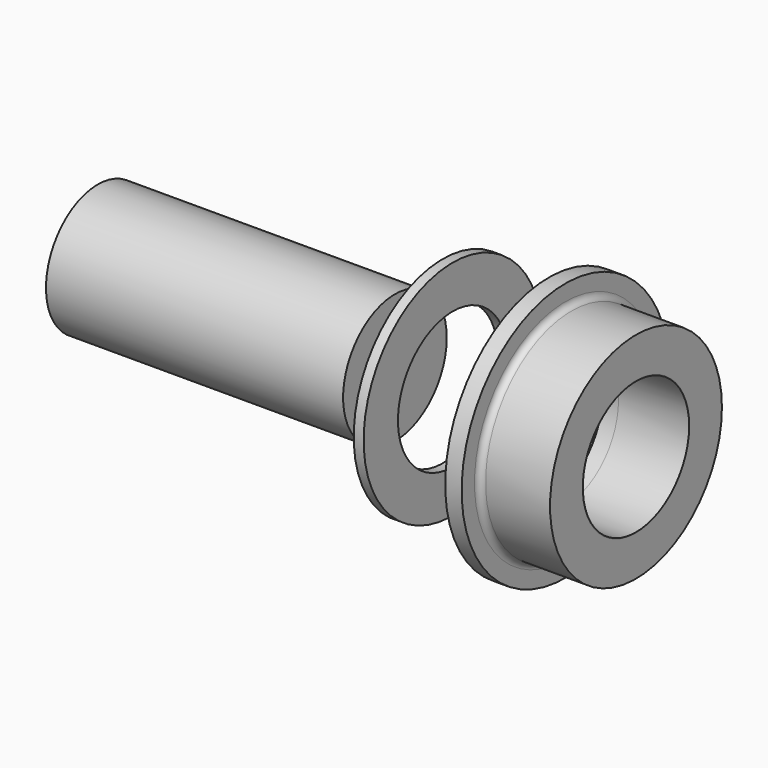
from build123d import *

# Parameters (mm, degrees)
F0_W   = 76.2
F0_H   = 16.6116
F0_W_2 = 2.54
F0_H_2 = 11.0109


with BuildPart() as f1:
    # F0 (on Top) → F1 (revolve)
    with BuildSketch(Plane.XY):
        with Locations((-27.274685, 8.3058)):
            Rectangle(F0_W, F0_H)
        with Locations((24.386736, 23.06955)):
            Rectangle(F0_W_2, F0_H_2)
        with BuildLine():
            Line((50.318114, 33.249445), (50.318114, 17.2339))
            Line((50.318114, 17.2339), (54.534514, 17.2339))
            Line((54.534514, 17.2339), (54.534514, 17.0434))
            Line((54.534514, 17.0434), (63.044108, 17.0434))
            Line((63.044108, 17.0434), (72.644323, 17.0434))
            Line((72.644323, 17.0434), (72.644714, 17.2339))
            Line((72.644714, 17.2339), (72.644714, 27.549917))
            Line((72.644714, 27.549917), (56.11763, 27.549917))
            ThreePointArc((56.11763, 27.549917), (54.998198, 28.013601), (54.534514, 29.133032))
            Line((54.534514, 29.133032), (54.534514, 33.249445))
            Line((54.534514, 33.249445), (50.318114, 33.249445))
        make_face()
    revolve(axis=Axis((0.35724, 0, 0), (1, 0, 0)))


solid = f1.part
